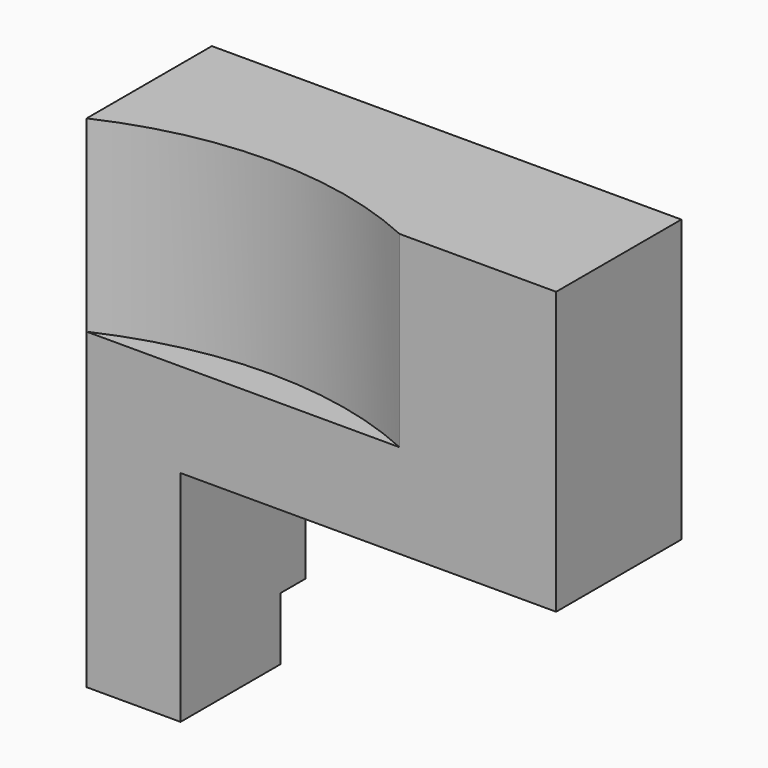
from build123d import *

# Parameters (mm, degrees)
F1_DEPTH = 25
F3_DEPTH = 30
F4_W     = 5
F4_H     = 10
F5_DEPTH = 15.001


with BuildPart() as f1:
    # F0 (on Front) → F1 (new body)
    with BuildSketch(Plane.XZ):
        Polygon((0, 80), (0, 0), (15, 0), (15, 35), (75, 35), (75, 80), align=None)
    extrude(amount=-F1_DEPTH)

    # F2 (on face) → F3 (cut)
    with BuildSketch(Plane.XY.offset(80)):
        with BuildLine():
            ThreePointArc((50, 0), (25, 5.456439), (0, 0))
            Line((0, 0), (50, 0))
        make_face()
    extrude(amount=-F3_DEPTH, mode=Mode.SUBTRACT)

    # F4 (on face) → F5 (cut, through all)
    with BuildSketch(Plane.YZ.offset(15)):
        with Locations((22.5, 5)):
            Rectangle(F4_W, F4_H)
    extrude(amount=-F5_DEPTH, mode=Mode.SUBTRACT)


solid = f1.part
